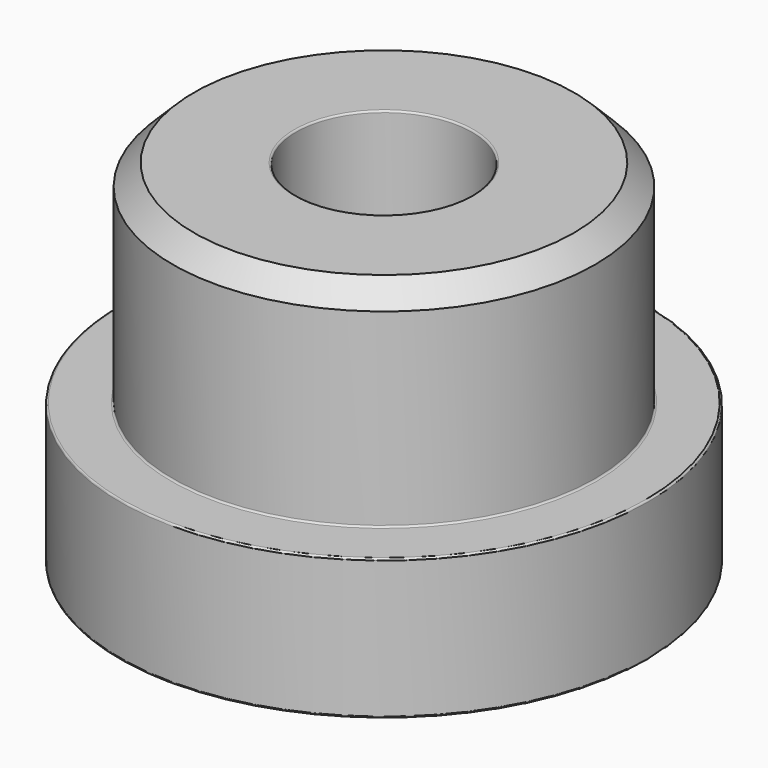
from build123d import *

# Parameters (mm, degrees)
F2_R    = 0.25
F3_SIZE = 3


with BuildPart() as f1:
    # F0 (on Front) → F1 (revolve)
    with BuildSketch(Plane.XZ):
        Polygon((30, 50), (12.5, 50), (12.5, 0), (37.5, 0), (37.5, 20), (30, 20), align=None)
    revolve(axis=Axis((0, 0, 16.379672), (0, 0, -1)))

    # F2
    f2_edges = [f1.edges().sort_by_distance(p)[0] for p in [
        (-12.5, 0, 50),
        (-12.5, 0, 0),
        (12.5, 0, 25),
        (-37.5, 0, 20),
        (-30, 0, 20),
        (-37.5, 0, 0),
    ]]
    fillet(f2_edges, radius=F2_R)

    # F3
    f3_edges = [f1.edges().sort_by_distance(p)[0] for p in [
        (-30, 0, 50),
    ]]
    chamfer(f3_edges, length=F3_SIZE)


solid = f1.part
